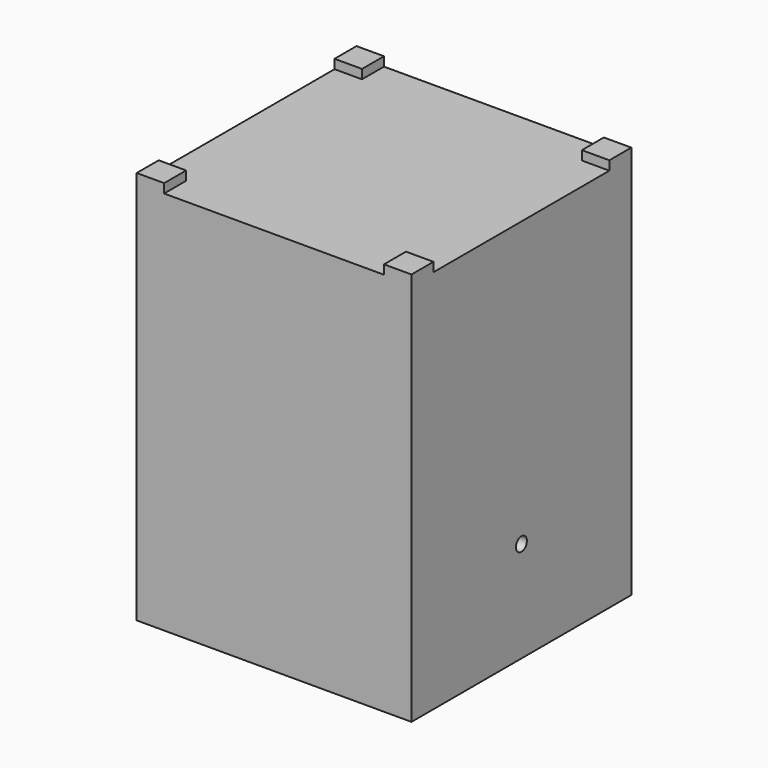
from build123d import *

# Parameters (mm, degrees)
F0_W     = 30
F0_H     = 30
F1_DEPTH = 42
F2_R     = 6.75
F3_DEPTH = 12
F6_W     = 3
F6_H     = 3
F7_DEPTH = 1
F8_R     = 0.75
F9_DEPTH = 8.2927961675


with BuildPart() as f1:
    # F0 (on Top) → F1 (new body)
    with BuildSketch(Plane.XY):
        Rectangle(F0_W, F0_H)
    extrude(amount=F1_DEPTH)

    # F2 (on Top) → F3 (cut)
    with BuildSketch(Plane.XY):
        Circle(F2_R)
    extrude(amount=F3_DEPTH, mode=Mode.SUBTRACT)

    # F4 (on Front) → F5 (revolve, cut)
    with BuildSketch(Plane.XZ):
        Polygon((0, 9.4530368224), (0, 0), (10, 0), align=None)
    revolve(axis=Axis((0, 0, 4.7265184112), (0, 0, -1)), mode=Mode.SUBTRACT)

    # F6 (on face) → F7 (join)
    with BuildSketch(Plane.XY.offset(42)):
        with Locations((-13.5, 13.5)):
            Rectangle(F6_W, F6_H)
        with Locations((13.5, 13.5)):
            Rectangle(F6_W, F6_H)
        with Locations((13.5, -13.5)):
            Rectangle(F6_W, F6_H)
        with Locations((-13.5, -13.5)):
            Rectangle(F6_W, F6_H)
    extrude(amount=F7_DEPTH)

    # F8 (on face) → F9 (cut, through all)
    with BuildSketch(Plane.YZ.offset(15)):
        with Locations((0, 11)):
            Circle(F8_R)
    extrude(amount=-F9_DEPTH, mode=Mode.SUBTRACT)


solid = f1.part
